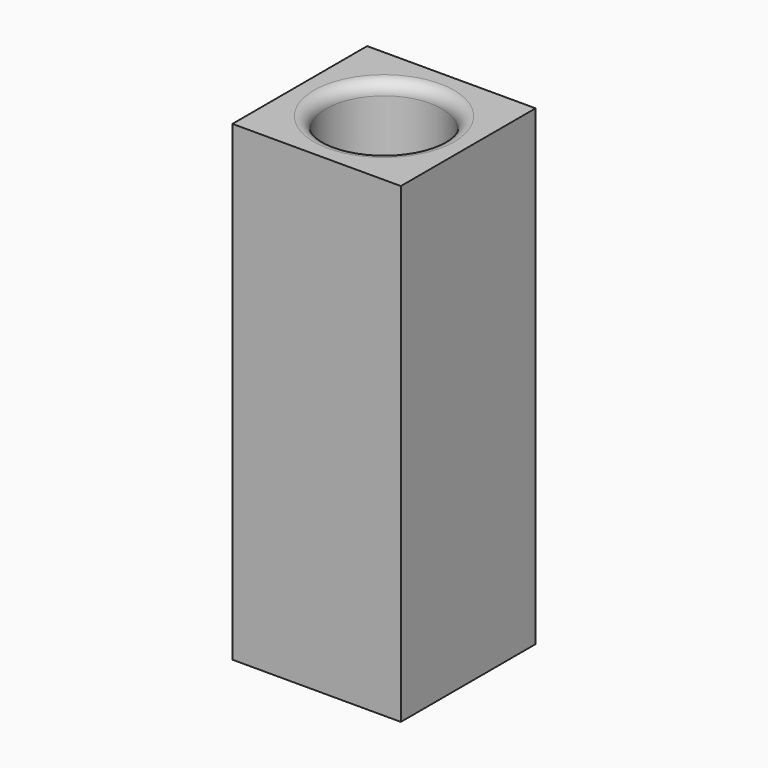
from build123d import *

# Parameters (mm, degrees)
F0_W     = 9.0678
F0_H     = 9.0678
F0_R     = 3.1115
F1_DEPTH = 25.4
F2_R     = 0.6604


with BuildPart() as f1:
    # F0 (on Top) → F1 (new body)
    with BuildSketch(Plane.XY):
        Rectangle(F0_W, F0_H)
        Circle(F0_R, mode=Mode.SUBTRACT)
    extrude(amount=F1_DEPTH)

    # F2
    f2_edges = [f1.edges().sort_by_distance(p)[0] for p in [
        (-3.1115, 0, 25.4),
    ]]
    fillet(f2_edges, radius=F2_R)


solid = f1.part
